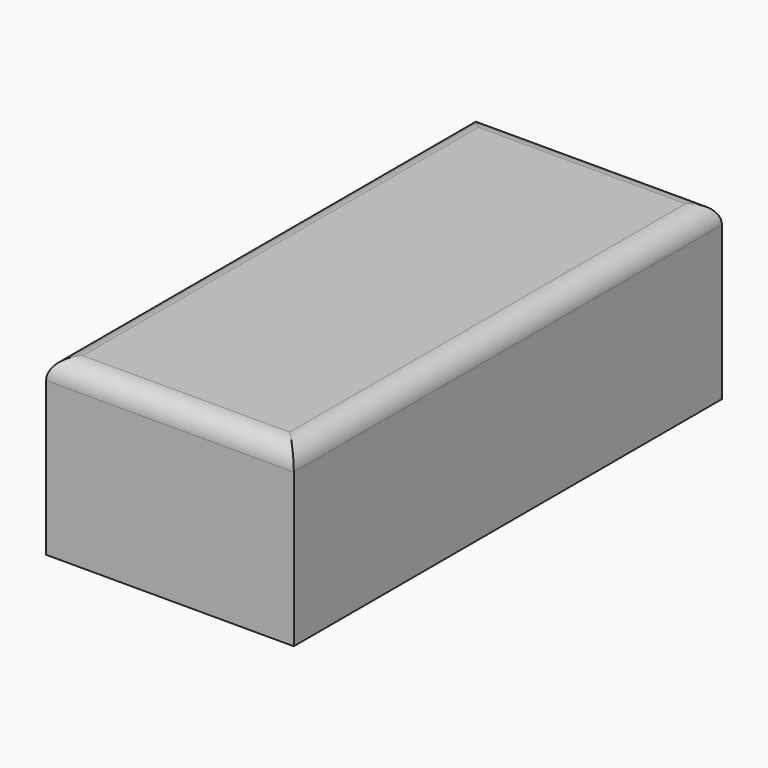
from build123d import *

# Parameters (mm, degrees)
F0_W     = 61.95803
F0_H     = 43.447111
F1_DEPTH = 133.858
F2_R     = 5.08


with BuildPart() as f1:
    # F0 (on Front) → F1 (new body)
    with BuildSketch(Plane.XZ):
        with Locations((30.979015, 21.723555)):
            Rectangle(F0_W, F0_H)
    extrude(amount=-F1_DEPTH)

    # F2
    f2_edges = [f1.edges().sort_by_distance(p)[0] for p in [
        (61.95803, 66.929, 43.447111),
        (0, 66.929, 43.447111),
        (30.979015, 0, 43.447111),
        (30.979015, 133.858, 43.447111),
    ]]
    fillet(f2_edges, radius=F2_R)


solid = f1.part
